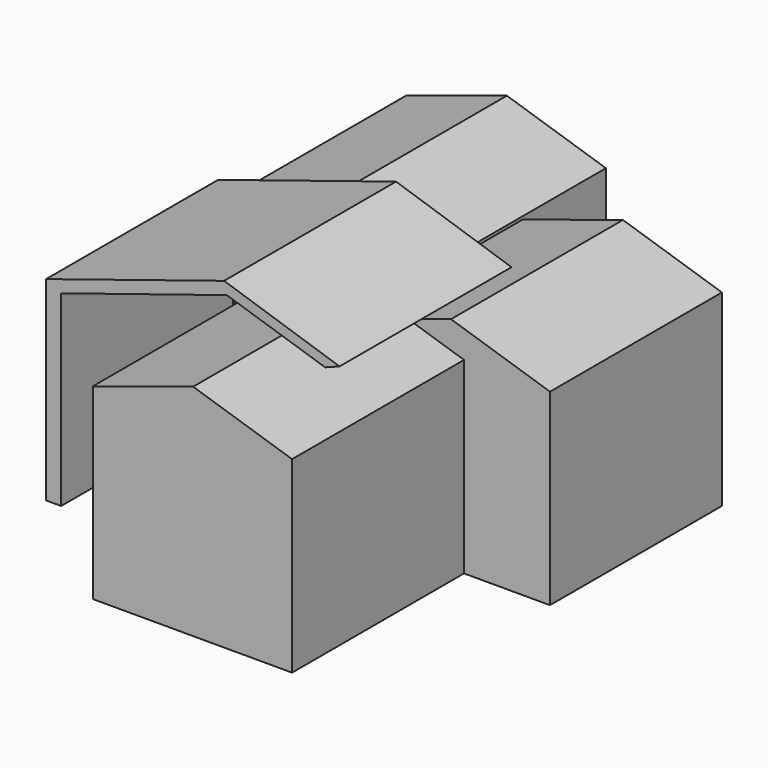
from build123d import *

# Parameters (mm, degrees)
F1_DEPTH = 50
F7_DEPTH = 25


with BuildPart() as f1:
    # F0 (on Front) → F1 (new body)
    with BuildSketch(Plane.XZ):
        Polygon((0, 43.572336), (0, 0), (46.370558, 0), (46.370558, 43.732237), (23.345176, 51.087569), align=None)
    extrude(amount=F1_DEPTH)


with BuildPart() as f2_1:
    # F2: copy of F1
    add(f1.part)


with BuildPart() as f4_1:
    # F4: copy of F1
    add(f1.part.moved(Location((20, 50, 0))))


with BuildPart() as f5_1:
    # F5: copy of F1
    add(f1.part.moved(Location((-27, 75, 0))))

    # F6 (on Front) → F7 (join, symmetric)
    with BuildSketch(Plane.XZ):
        Polygon((11.192895, 55.724621), (34.058377, 48.369288), (37.416242, 49.648479), (10.5533, 58.442898), (-30.860407, 45.331221), (-30.860407, 0), (-27.34264, 0), (-27.34264, 43.572336), align=None)
    extrude(amount=F7_DEPTH, both=True)


solid = Compound([f1.part, f4_1.part, f5_1.part])
